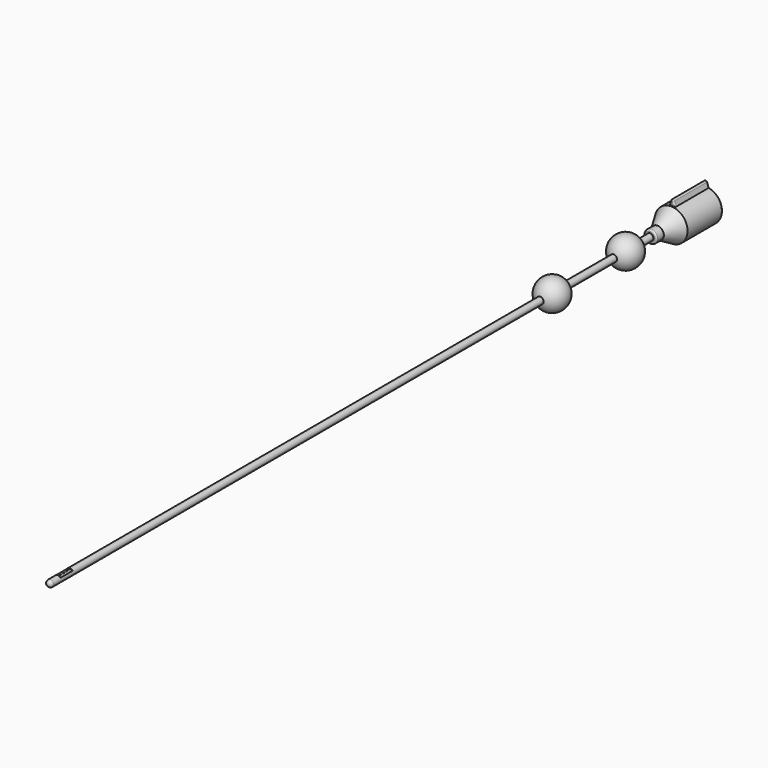
from build123d import *

# Parameters (mm, degrees)
F0_R      = 1.104
F0_R_2    = 0.85
F2_DEPTH  = 245
F1_W      = 0.9
F1_H      = 5
F3_DEPTH  = 2
F8_DEPTH  = 14
F9_R      = 0.5
F13_DEPTH = 245


with BuildPart() as f2:
    # F0 (on Front) → F2 (new body)
    with BuildSketch(Plane.XZ):
        Circle(F0_R)
        Circle(F0_R_2, mode=Mode.SUBTRACT)
    extrude(amount=-F2_DEPTH)

    # F1 (on Top) → F3 (cut)
    with BuildSketch(Plane.XY):
        with Locations((-0.45, 5.5)):
            Rectangle(F1_W, F1_H)
        with Locations((0.45, 5.5)):
            Rectangle(F1_W, F1_H)
    extrude(amount=F3_DEPTH, mode=Mode.SUBTRACT)

    # F1 (on Top) → F12 (revolve)
    with BuildSketch(Plane.XY):
        with BuildLine():
            Line((0, -1.078341), (0, -0.824341))
            ThreePointArc((0, -0.824341), (-0.592038, -0.584408), (-0.85, 0))
            Line((-0.85, 0), (-1.104092, 0))
            ThreePointArc((-1.104092, 0), (-0.77166, -0.764029), (0, -1.078341))
        make_face()
    revolve(axis=Axis((0, 123.037226, 0), (0, -1, 0)))


with BuildPart() as f5:
    # F4 (on Right) → F5 (revolve)
    with BuildSketch(Plane.YZ):
        Polygon((245.02629, 2.098785), (245.02629, 0.844785), (248.02629, 0.844785), (253.648527, 4.090785), (268.02629, 4.090785), (268.02629, 5.344785), (253.648527, 5.344785), (248.02629, 2.098785), align=None)
    revolve(axis=Axis((0, 123.037226, 0), (0, -1, 0)))

    # F7 (on offset) → F8 (join)
    with BuildSketch(Plane(origin=(0, 268.02629, 0), x_dir=(-1, 0, 0), z_dir=(0, 1, 0))):
        Polygon((0, 8.078829), (-1, 5.250402), (1, 5.250402), align=None)
    extrude(amount=-F8_DEPTH)

    # F9
    f9_edges = [f5.edges().sort_by_distance(p)[0] for p in [
        (0, 268.02629, -4.090785),
        (0.5, 268.02629, 6.664616),
        (-0.5, 268.02629, 6.664616),
        (0, 268.02629, -5.344785),
        (0, 245.02629, -2.098785),
        (0.5, 254.02629, 6.664616),
        (-0.5, 254.02629, 6.664616),
        (0, 261.02629, 8.078829),
    ]]
    fillet(f9_edges, radius=F9_R)


with BuildPart() as f10:
    # F4 (on Right) → F10 (revolve)
    with BuildSketch(Plane.YZ):
        with BuildLine():
            Line((200, 0), (210, 0))
            ThreePointArc((210, 0), (205, 5), (200, 0))
        make_face()
    revolve(axis=Axis((0, 123.037226, 0), (0, -1, 0)))


with BuildPart() as f11:
    # F4 (on Right) → F11 (revolve)
    with BuildSketch(Plane.YZ):
        with BuildLine():
            Line((230, 0), (240, 0))
            ThreePointArc((240, 0), (235, 5), (230, 0))
        make_face()
    revolve(axis=Axis((0, 123.037226, 0), (0, -1, 0)))


with BuildPart() as f13_tool:
    # F0 (on Front) → F13 (new body)
    with BuildSketch(Plane.XZ):
        Circle(F0_R_2)
    extrude(amount=-F13_DEPTH)


with BuildPart() as f10_1:
    add(f10.part)

    # F13: cut by f13_tool
    add(f13_tool.part, mode=Mode.SUBTRACT)


with BuildPart() as f11_1:
    add(f11.part)

    # F13: cut by f13_tool
    add(f13_tool.part, mode=Mode.SUBTRACT)


solid = Compound([f2.part, f5.part, f10_1.part, f11_1.part])
